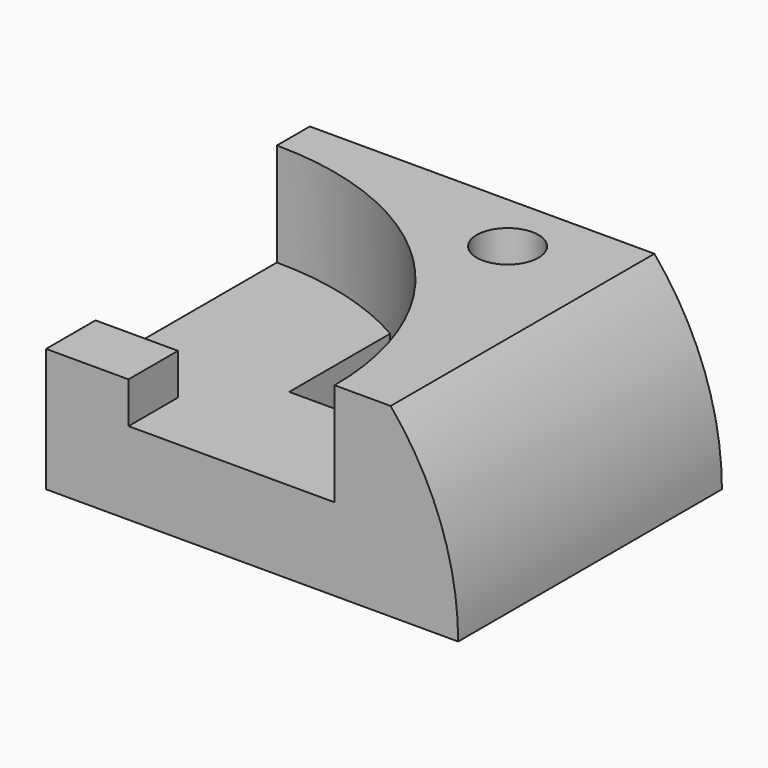
from build123d import *

# Parameters (mm, degrees)
F1_DEPTH  = 80
F3_R      = 70
F4_DEPTH  = 25
F5_W      = 20
F5_H      = 15
F6_DEPTH  = 10
F8_DEPTH  = 20.001
F10_R     = 7.5
F11_DEPTH = 30


with BuildPart() as f1:
    # F0 (on Front) → F1 (new body)
    with BuildSketch(Plane.XZ):
        with BuildLine():
            Line((0, 0), (100, 0))
            ThreePointArc((100, 0), (95.777397, 23.944395), (83.619026, 45))
            Line((83.619026, 45), (0, 45))
            Line((0, 45), (0, 0))
        make_face()
    extrude(amount=F1_DEPTH)

    # F3 (on face) → F4 (cut, through all)
    with BuildSketch(Plane.XY.offset(45)):
        with Locations((0, -80)):
            Circle(F3_R)
    extrude(amount=-F4_DEPTH, mode=Mode.SUBTRACT)

    # F5 (on face) → F6 (join)
    with BuildSketch(Plane.XY.offset(20)):
        with Locations((10, -72.5)):
            Rectangle(F5_W, F5_H)
    extrude(amount=F6_DEPTH)

    # F7 (on face) → F8 (cut, through all)
    with BuildSketch(Plane.XY.offset(20)):
        with BuildLine():
            ThreePointArc((63.245553, -50), (51.453576, -32.539179), (35, -19.378222))
            Line((35, -19.378222), (35, -50))
            Line((35, -50), (63.245553, -50))
        make_face()
    extrude(amount=-F8_DEPTH, mode=Mode.SUBTRACT)

    # F10 (on face) → F11 (cut, through all)
    with BuildSketch(Plane.XY.offset(45)):
        with Locations((60, -15)):
            Circle(F10_R)
    extrude(amount=-F11_DEPTH, mode=Mode.SUBTRACT)


solid = f1.part
